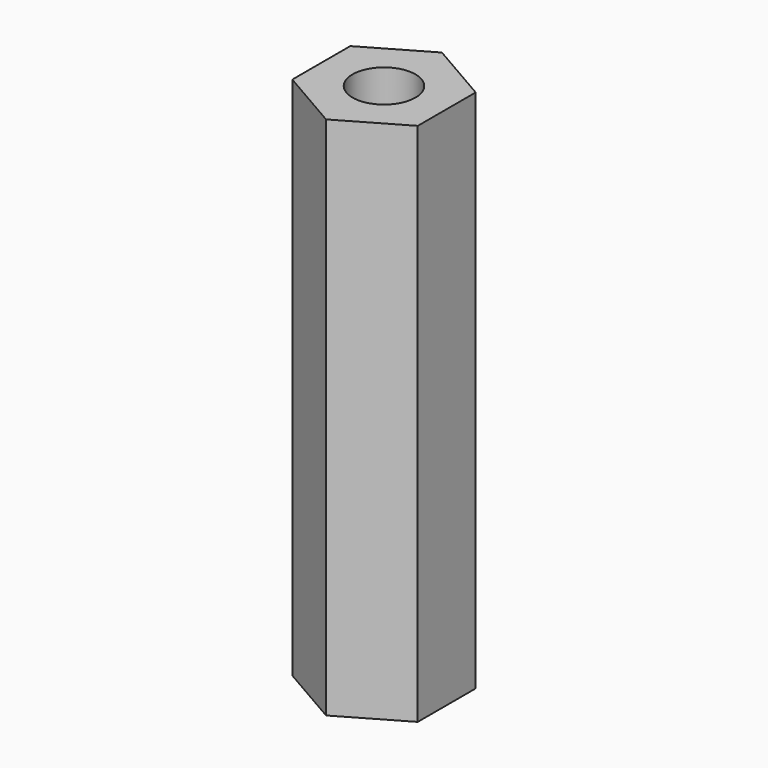
from build123d import *

# Parameters (mm, degrees)
SKETCH_R  = 1.5
PAD_DEPTH = 25


with BuildPart() as part:
    # Sketch → Pad (new body)
    with BuildSketch(Plane.XY):
        Polygon((0, 3.45), (-2.987788, 1.725), (-2.987788, -1.725), (0, -3.45), (2.987788, -1.725), (2.987788, 1.725), align=None)
        Circle(SKETCH_R, mode=Mode.SUBTRACT)
    extrude(amount=PAD_DEPTH)


solid = part.part
